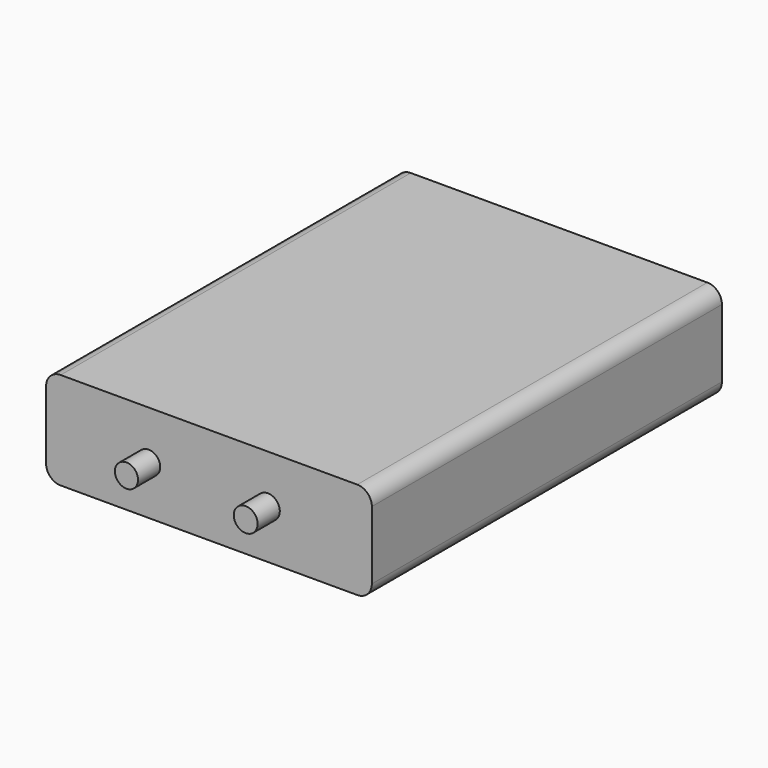
from build123d import *

# Parameters (mm, degrees)
F0_W     = 67
F0_H     = 20
F1_DEPTH = 45
F2_R     = 3
F4_DEPTH = 5.6
F5_DEPTH = 5.7
F6_W     = 52.390475
F6_H     = 5.804801
F7_DEPTH = 2.2
F6_W_2   = 10.85727
F6_H_2   = 2.118381
F8_DEPTH = 1.3


with BuildPart() as f1:
    # F0 (on Front) → F1 (new body, symmetric)
    with BuildSketch(Plane.XZ):
        Rectangle(F0_W, F0_H)
    extrude(amount=F1_DEPTH, both=True)

    # F2
    f2_edges = [f1.edges().sort_by_distance(p)[0] for p in [
        (-33.5, 0, 10),
        (-33.5, 0, -10),
        (33.5, 0, 10),
        (33.5, 0, -10),
    ]]
    fillet(f2_edges, radius=F2_R)

    # F3 (on face) → F4 (join)
    with BuildSketch(Plane.XZ.offset(45)):
        with BuildLine():
            ThreePointArc((-10.025558, 0), (-12.40529, 2.379732), (-14.785022, 0))
            Line((-14.785022, 0), (-10.025558, 0))
        make_face()
        with BuildLine():
            ThreePointArc((14.566558, 0), (12.115266, 2.451292), (9.663974, 0))
            Line((9.663974, 0), (14.566558, 0))
        make_face()
        with BuildLine():
            Line((14.566558, 0), (9.663974, 0))
            ThreePointArc((9.663974, 0), (12.115266, -2.451292), (14.566558, 0))
        make_face()
        with BuildLine():
            Line((-10.025558, 0), (-14.785022, 0))
            ThreePointArc((-14.785022, 0), (-12.40529, -2.379732), (-10.025558, 0))
        make_face()
    extrude(amount=F4_DEPTH)

    # F3 (on face) → F5 (join)
    with BuildSketch(Plane.XZ.offset(45)):
        with BuildLine():
            ThreePointArc((-10.025558, 0), (-12.40529, 2.379732), (-14.785022, 0))
            Line((-14.785022, 0), (-10.025558, 0))
        make_face()
        with BuildLine():
            ThreePointArc((14.566558, 0), (12.115266, 2.451292), (9.663974, 0))
            Line((9.663974, 0), (14.566558, 0))
        make_face()
        with BuildLine():
            Line((14.566558, 0), (9.663974, 0))
            ThreePointArc((9.663974, 0), (12.115266, -2.451292), (14.566558, 0))
        make_face()
        with BuildLine():
            Line((-10.025558, 0), (-14.785022, 0))
            ThreePointArc((-14.785022, 0), (-12.40529, -2.379732), (-10.025558, 0))
        make_face()
    extrude(amount=F5_DEPTH)

    # F6 (on face) → F7 (join)
    with BuildSketch(Plane(origin=(0, 45, 0), x_dir=(-1, 0, 0), z_dir=(0, 1, 0))):
        with Locations((1.547624, -1.486943)):
            Rectangle(F6_W, F6_H)
    extrude(amount=F7_DEPTH)

    # F6 (on face) → F8 (join)
    with BuildSketch(Plane(origin=(0, 45, 0), x_dir=(-1, 0, 0), z_dir=(0, 1, 0))):
        with Locations((13.856874, 4.369838)):
            Rectangle(F6_W_2, F6_H_2)
    extrude(amount=F8_DEPTH)


solid = f1.part
